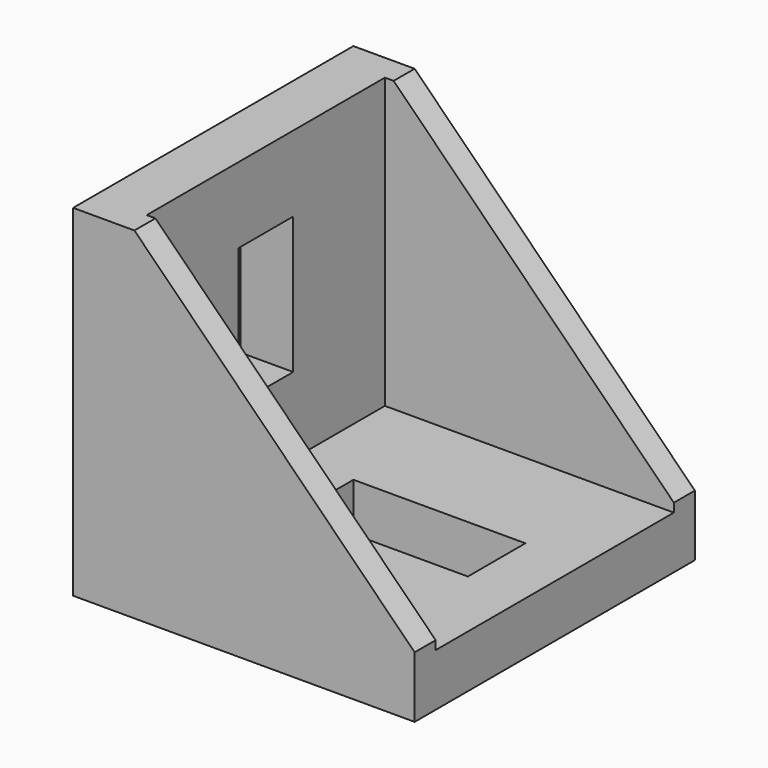
from build123d import *

# Parameters (mm, degrees)
F1_DEPTH = 20
F2_W     = 33
F2_H     = 34
F3_DEPTH = 39.001
F4_DEPTH = 6
F5_W     = 7.814886
F5_H     = 15.629771
F6_DEPTH = 25
F7_W     = 19.637413
F7_H     = 8.21565
F8_DEPTH = 39.001


with BuildPart() as f1:
    # F0 (on Front) → F1 (new body, symmetric)
    with BuildSketch(Plane.XZ):
        Polygon((0, 39), (0, 0), (39, 0), (39, 7), (7, 39), align=None)
    extrude(amount=F1_DEPTH, both=True)

    # F2 (on Top) → F3 (cut, through all)
    with BuildSketch(Plane.XY):
        with Locations((22.5, 0)):
            Rectangle(F2_W, F2_H)
    extrude(amount=F3_DEPTH, mode=Mode.SUBTRACT)

    # F2 (on Top) → F4 (join)
    with BuildSketch(Plane.XY):
        with Locations((22.5, 0)):
            Rectangle(F2_W, F2_H)
    extrude(amount=F4_DEPTH)

    # F5 (on face) → F6 (cut)
    with BuildSketch(Plane.YZ.offset(6)):
        with Locations((0, 22.542938)):
            Rectangle(F5_W, F5_H)
    extrude(amount=-F6_DEPTH, mode=Mode.SUBTRACT)

    # F7 (on Top) → F8 (cut, through all)
    with BuildSketch(Plane.XY):
        with Locations((22.542938, 0)):
            Rectangle(F7_W, F7_H)
    extrude(amount=F8_DEPTH, mode=Mode.SUBTRACT)


solid = f1.part
